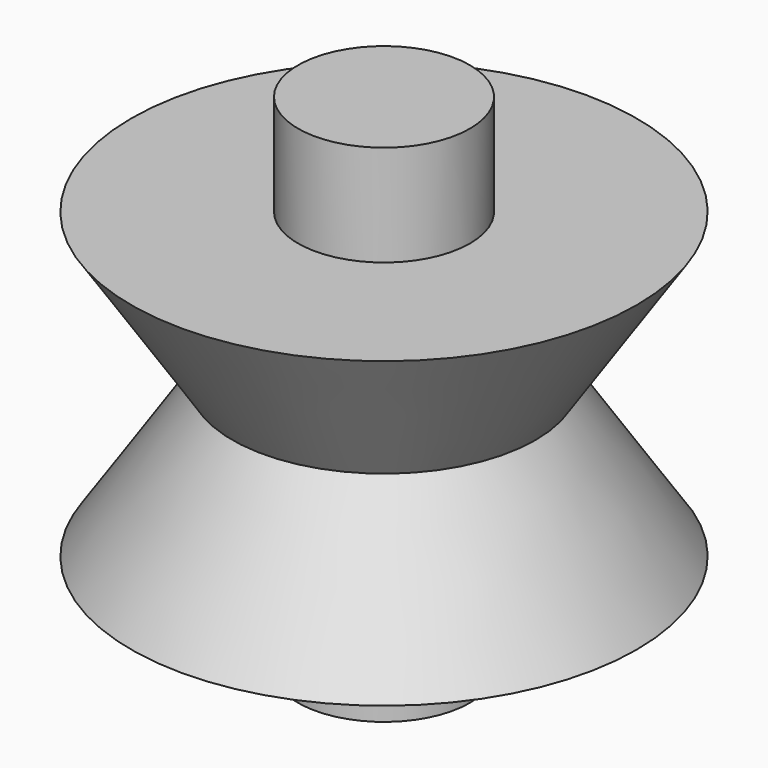
from build123d import *

# Parameters (mm, degrees)
CYLINDER_R     = 1.7
CYLINDER_DEPTH = 10


with BuildPart() as cono:
    # Cone → Cone (revolve)
    with BuildSketch(Plane.XZ):
        Polygon((0, 0), (3, 0), (5, 3), (0, 3), align=None)
    revolve(axis=Axis((0, 0, 0), (0, 0, 1)))


with BuildPart() as fusion:
    # Cone001 → Cone001 (revolve)
    with BuildSketch(Plane(origin=(0, 0, 0), x_dir=(1, 0, 0), z_dir=(0, 1, 0))):
        Polygon((0, 0), (3, 0), (5, 3), (0, 3), align=None)
    revolve(axis=Axis((0, 0, 0), (0, 0, -1)))

    # Fusion: union Cono
    add(cono.part)


with BuildPart() as fusion001002:
    # Cylinder → Cylinder (new body)
    with BuildSketch(Plane.XY.offset(-5)):
        Circle(CYLINDER_R)
    extrude(amount=CYLINDER_DEPTH)

    # Fusion001002: union Fusion
    add(fusion.part)


solid = fusion001002.part
